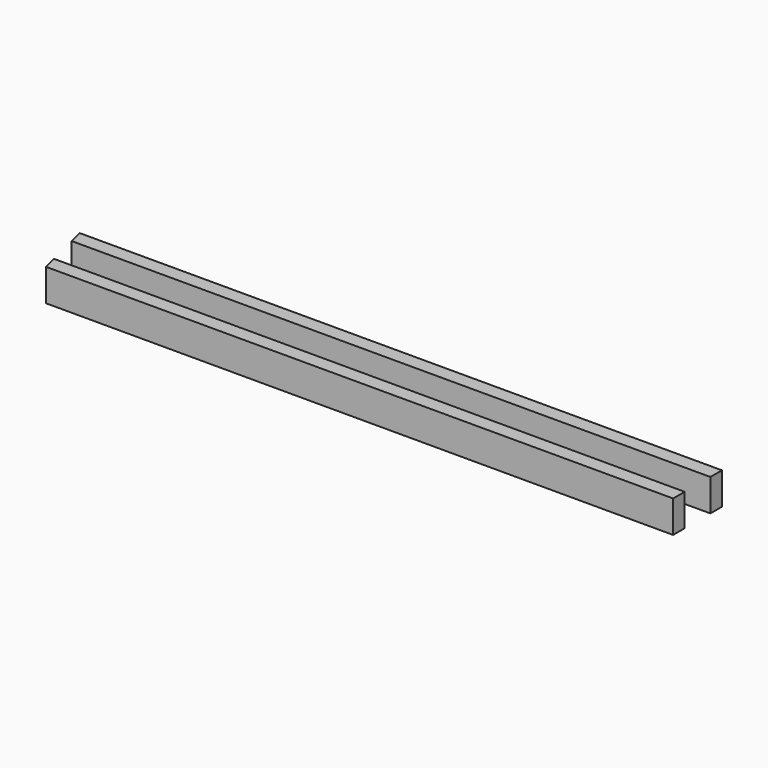
from build123d import *

# Parameters (mm, degrees)
F0_W     = 45
F0_H     = 100
F1_DEPTH = 2000
F3_DEPTH = 100


with BuildPart() as f1:
    # F0 (on Right) → F1 (new body)
    with BuildSketch(Plane.YZ):
        with Locations((-72.5, -50)):
            Rectangle(F0_W, F0_H)
        with Locations((72.5, -50)):
            Rectangle(F0_W, F0_H)
    extrude(amount=F1_DEPTH)

    # F2 (on face) → F3 (cut)
    with BuildSketch(Plane.XY):
        Polygon((47.372321, -95), (0, 95), (0, -95), align=None)
    extrude(amount=-F3_DEPTH, mode=Mode.SUBTRACT)


solid = f1.part
